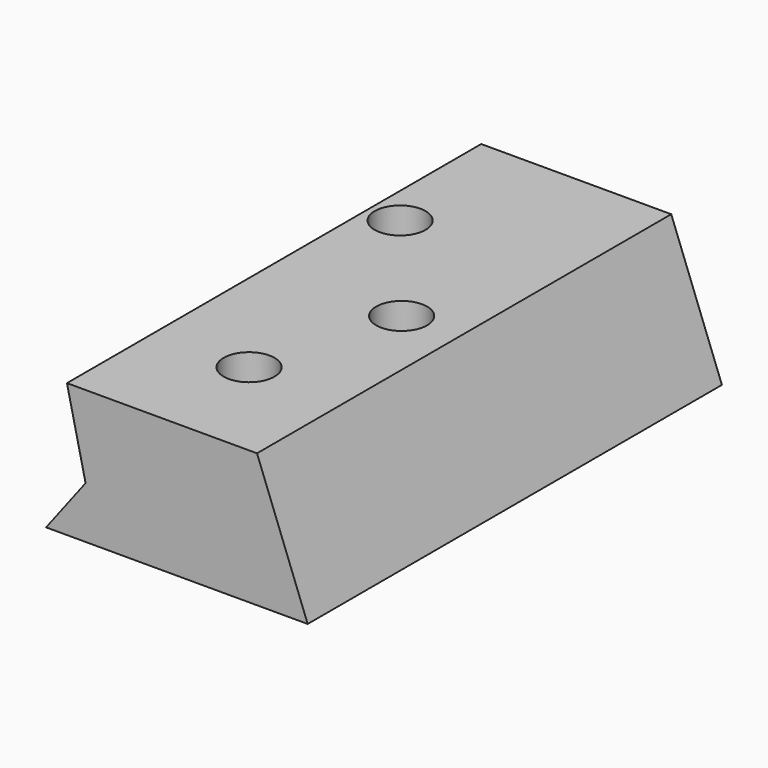
from build123d import *

# Parameters (mm, degrees)
F1_DEPTH = 193.802
F3_D     = 19.05
F3_DEPTH = 25.4
F3_TIP   = 5.7231973962


with BuildPart() as f1:
    # F0 (on Front) → F1 (new body)
    with BuildSketch(Plane.XZ):
        Polygon((-28.3144004643, 19.3876922131), (-43.099258095, 0), (54.8155643046, 0), (35.846311599, 50.0732474029), (-35.2883897722, 50.0732474029), align=None)
    extrude(amount=F1_DEPTH)

    # F3
    with Locations(Plane.XY.offset(50.0732474029)):
        with Locations((0, -152.7023911476), (14.5498933271, -99.5006561279), (-23.5541760921, -52.5973588228)):
            Hole(F3_D / 2, depth=F3_DEPTH)
            with Locations((0, 0, -(F3_DEPTH + F3_TIP / 2))):  # 118° drill point
                Cone(0, F3_D / 2, F3_TIP, mode=Mode.SUBTRACT)


solid = f1.part
